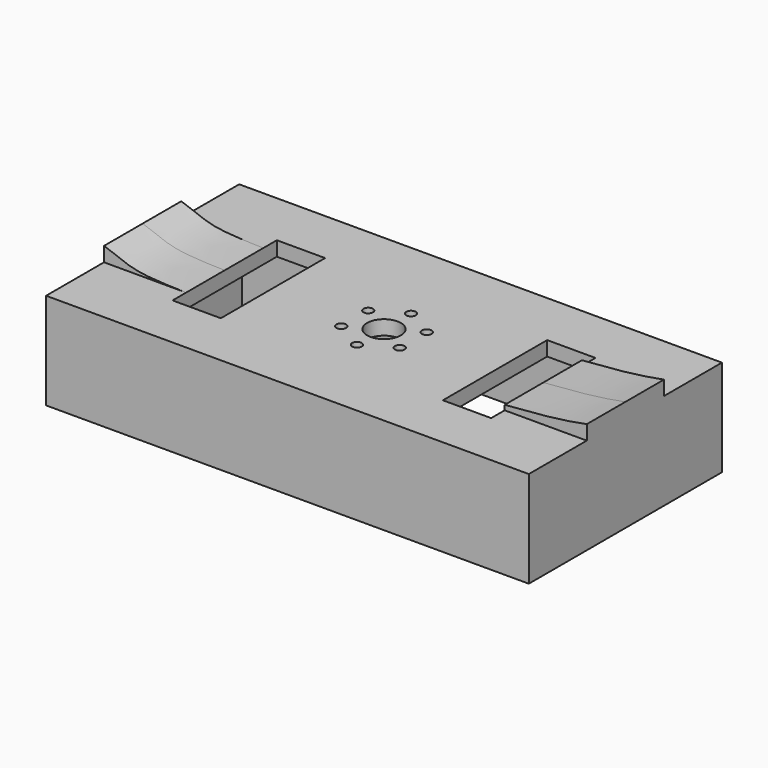
from build123d import *

# Parameters (mm, degrees)
F0_W     = 100
F0_H     = 50
F1_DEPTH = 20
F2_T     = -3
F3_R     = 3.5
F3_R_2   = 1
F3_W     = 10
F3_H     = 27
F4_DEPTH = 25
F6_DEPTH = 10


with BuildPart() as f1:
    # F0 (on Top) → F1 (new body)
    with BuildSketch(Plane.XY):
        Rectangle(F0_W, F0_H)
    extrude(amount=F1_DEPTH)

    # F2
    f2_openings = [f1.faces().sort_by_distance(p)[0] for p in [
        (0, 0, 0),
    ]]
    offset(amount=F2_T, openings=f2_openings)

    # F3 (on face) → F4 (cut)
    with BuildSketch(Plane.XY.offset(20)):
        Circle(F3_R)
        with Locations((0, 7)):
            Circle(F3_R_2)
        with Locations((-6.0621778265, 3.5)):
            Circle(F3_R_2)
        with Locations((-6.0621778265, -3.5)):
            Circle(F3_R_2)
        with Locations((0, -7)):
            Circle(F3_R_2)
        with Locations((6.0621778265, -3.5)):
            Circle(F3_R_2)
        with Locations((6.0621778265, 3.5)):
            Circle(F3_R_2)
        with Locations((-28, 0)):
            Rectangle(F3_W, F3_H)
        with Locations((28, 0)):
            Rectangle(F3_W, F3_H)
    extrude(amount=-F4_DEPTH, mode=Mode.SUBTRACT)

    # F5 (on Front) → F6 (join, symmetric)
    with BuildSketch(Plane.XZ):
        with BuildLine():
            Line((33, 20), (50, 20))
            Line((50, 20), (50, 23))
            add(Edge.make_bspline(
                [(33, 21), (36.8661454102, 21.3032203159), (43.6623686797, 21.8362455253), (48.0907692486, 22.6494154176), (50, 23)],
                knots=[0, 0, 0, 0, 0.5688667451, 1, 1, 1, 1], degree=3))
            Line((33, 21), (33, 20))
        make_face()
        with BuildLine():
            Line((-50, 23), (-50, 20))
            Line((-50, 20), (-33, 20))
            add(Edge.make_bspline(
                [(-50, 23), (-47.7477722772, 22.3250847317), (-43.9802378635, 20.1526522743), (-36.3079621025, 20.101446954), (-33, 20)],
                knots=[0, 0, 0, 0, 0.4421409573, 1, 1, 1, 1], degree=3))
        make_face()
    extrude(amount=F6_DEPTH, both=True)


solid = f1.part
